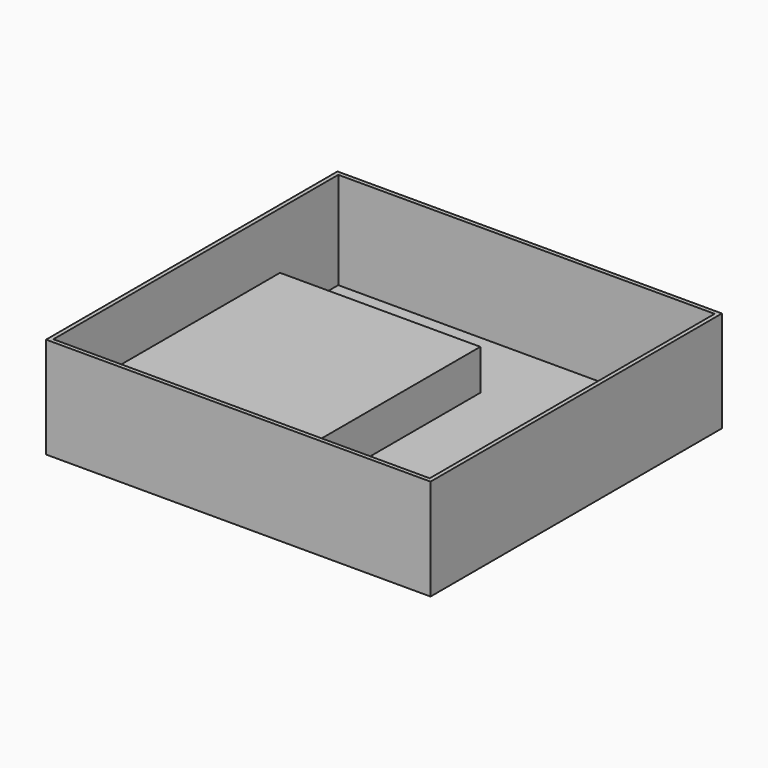
from build123d import *

# Parameters (mm, degrees)
SKETCH017_W    = 95
SKETCH017_H    = 90
PAD010_DEPTH   = 25
THICKNESS001_T = -1
SKETCH021_W    = 50
SKETCH021_H    = 70
PAD013_DEPTH   = 10


with BuildPart() as part:
    # Sketch017 → Pad010 (new body)
    with BuildSketch(Plane.XY):
        Rectangle(SKETCH017_W, SKETCH017_H)
    extrude(amount=PAD010_DEPTH)

    # Thickness001
    thickness001_openings = [part.faces().sort_by_distance(p)[0] for p in [
        (0, 0, 25),
    ]]
    offset(amount=THICKNESS001_T, openings=thickness001_openings)

    # Sketch021 (on DatumPlane) → Pad013 (join)
    with BuildSketch(Plane.XY.offset(1)):
        with Locations((-22, -9)):
            Rectangle(SKETCH021_W, SKETCH021_H)
    extrude(amount=PAD013_DEPTH)


with BuildPart() as part_1:
    # Body005 placement: moved
    add(part.part.moved(Location((-47, 39, 36))))


solid = part_1.part
